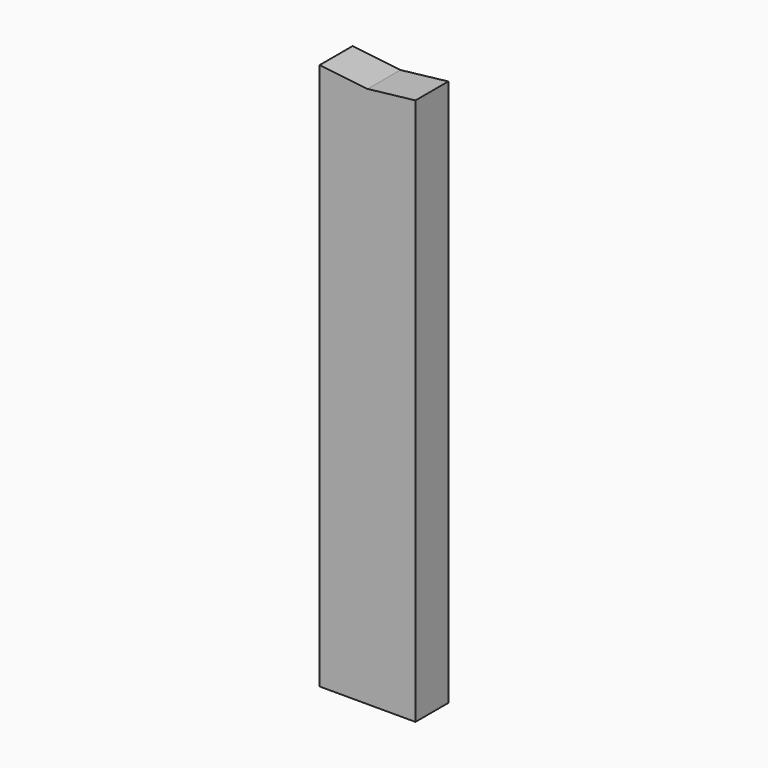
from build123d import *

# Parameters (mm, degrees)
F0_W     = 88.9
F0_H     = 38.1
F1_DEPTH = 508
F3_DEPTH = 38.1


with BuildPart() as f1:
    # F0 (on Top) → F1 (new body)
    with BuildSketch(Plane.XY):
        with Locations((44.45, 19.05)):
            Rectangle(F0_W, F0_H)
    extrude(amount=F1_DEPTH)

    # F2 (on face) → F3 (cut, through all)
    with BuildSketch(Plane.XZ):
        Polygon((88.9, 508), (0, 508), (44.45, 502.92), align=None)
    extrude(amount=-F3_DEPTH, mode=Mode.SUBTRACT)


solid = f1.part
